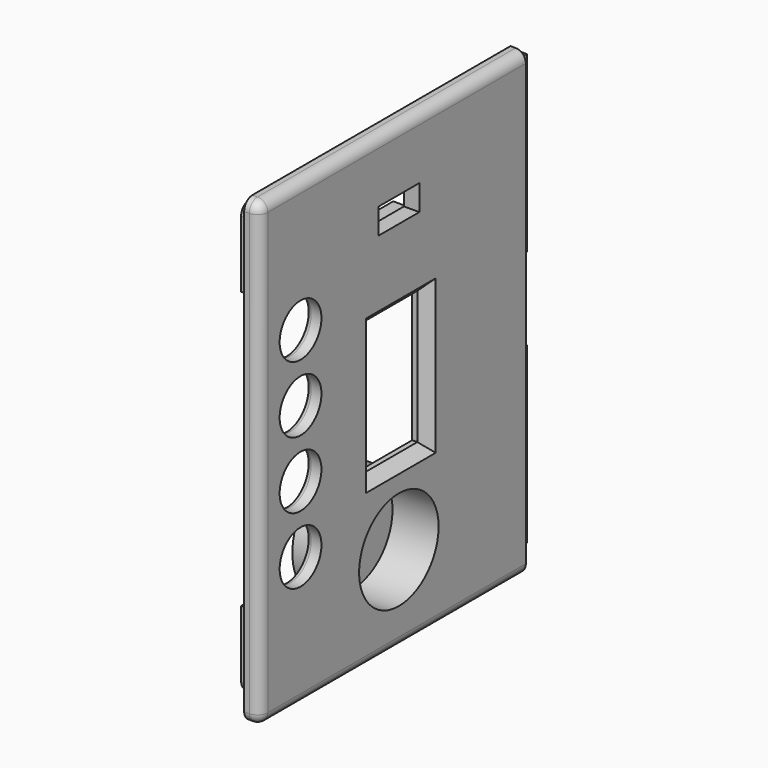
from build123d import *

# Parameters (mm, degrees)
SKETCH014_W     = 65
SKETCH014_H     = 90
SKETCH014_R     = 5.1
SKETCH014_W_2   = 13
SKETCH014_H_2   = 26
PAD010_DEPTH    = 3
SKETCH015_W     = 15
SKETCH015_H     = 13
POCKET004_DEPTH = 2
PAD011_DEPTH    = 3
FILLET009_R     = 2
FILLET010_R     = 2
FILLET011_R     = 2
CHAMFER008_SIZE = 2
CHAMFER009_SIZE = 2
CHAMFER010_SIZE = 2
CHAMFER011_SIZE = 2
FILLET012_R     = 1
FILLET013_R     = 1
FILLET014_R     = 1
FILLET015_R     = 1
FILLET016_R     = 2
FILLET017_R     = 2
SKETCH017_R     = 11
PAD012_DEPTH    = 9
SKETCH019_R     = 9.7
POCKET005_DEPTH = 9
SKETCH020_W     = 10
SKETCH020_H     = 5
POCKET006_DEPTH = 3
SKETCH021_R     = 0.5
PAD013_DEPTH    = 3
SKETCH022_W     = 3
SKETCH022_H     = 5
SKETCH022_W_2   = 16
SKETCH022_H_2   = 2
PAD014_DEPTH    = 5
CHAMFER012_SIZE = 1
CHAMFER013_SIZE = 0.5
CHAMFER014_SIZE = 0.5
CHAMFER015_SIZE = 1
SKETCH023_W     = 6
SKETCH023_H     = 34
PAD015_DEPTH    = 2


with BuildPart() as part:
    # Sketch014 → Pad010 (new body)
    with BuildSketch(Plane.YZ):
        with Locations((32.5, 0)):
            Rectangle(SKETCH014_W, SKETCH014_H)
        with Locations((10, 19.5)):
            Circle(SKETCH014_R, mode=Mode.SUBTRACT)
        with Locations((10, 6.5)):
            Circle(SKETCH014_R, mode=Mode.SUBTRACT)
        with Locations((10, -6.5)):
            Circle(SKETCH014_R, mode=Mode.SUBTRACT)
        with Locations((10, -19.5)):
            Circle(SKETCH014_R, mode=Mode.SUBTRACT)
        with Locations((34.5, 0)):
            Rectangle(SKETCH014_W_2, SKETCH014_H_2, mode=Mode.SUBTRACT)
    extrude(amount=PAD010_DEPTH)

    # Sketch015 (on Face13 of Pad010) → Pocket004 (cut)
    with BuildSketch(Plane(origin=(0, 0, 0), x_dir=(0, 1, 0), z_dir=(-1, 0, 0))):
        with Locations((57.5, 0)):
            Rectangle(SKETCH015_W, SKETCH015_H)
    extrude(amount=-POCKET004_DEPTH, mode=Mode.SUBTRACT)

    # Sketch016 (on Face4 of Pocket004) → Pad011 (join)
    with BuildSketch(Plane(origin=(0, 0, 0), x_dir=(0, 1, 0), z_dir=(-1, 0, 0))):
        Polygon((3, 27), (3, 42), (65, 42), (65, 40), (5, 40), (5, 27), align=None)
        Polygon((3, -27), (3, -42), (65, -42), (65, -40), (5, -40), (5, -27), align=None)
    extrude(amount=PAD011_DEPTH)

    # Fillet009
    fillet009_edges = [part.edges().sort_by_distance(p)[0] for p in [
        (3, 32.5, 45),
    ]]
    fillet(fillet009_edges, radius=FILLET009_R)

    # Fillet010
    fillet010_edges = [part.edges().sort_by_distance(p)[0] for p in [
        (3, 0, -1),
    ]]
    fillet(fillet010_edges, radius=FILLET010_R)

    # Fillet011
    fillet011_edges = [part.edges().sort_by_distance(p)[0] for p in [
        (3, 33.5, -45),
    ]]
    fillet(fillet011_edges, radius=FILLET011_R)

    # Chamfer008
    chamfer008_edges = [part.edges().sort_by_distance(p)[0] for p in [
        (3, 41, 0),
    ]]
    chamfer(chamfer008_edges, length=CHAMFER008_SIZE)

    # Chamfer009
    chamfer009_edges = [part.edges().sort_by_distance(p)[0] for p in [
        (3, 34.5, 13),
    ]]
    chamfer(chamfer009_edges, length=CHAMFER009_SIZE)

    # Chamfer010
    chamfer010_edges = [part.edges().sort_by_distance(p)[0] for p in [
        (3, 35.5, -13),
    ]]
    chamfer(chamfer010_edges, length=CHAMFER010_SIZE)

    # Chamfer011
    chamfer011_edges = [part.edges().sort_by_distance(p)[0] for p in [
        (3, 28, 1),
    ]]
    chamfer(chamfer011_edges, length=CHAMFER011_SIZE)

    # Fillet012
    fillet012_edges = [part.edges().sort_by_distance(p)[0] for p in [
        (0, 4.9, 19.5),
    ]]
    fillet(fillet012_edges, radius=FILLET012_R)

    # Fillet013
    fillet013_edges = [part.edges().sort_by_distance(p)[0] for p in [
        (0, 4.9, 6.5),
    ]]
    fillet(fillet013_edges, radius=FILLET013_R)

    # Fillet014
    fillet014_edges = [part.edges().sort_by_distance(p)[0] for p in [
        (0, 4.9, -6.5),
    ]]
    fillet(fillet014_edges, radius=FILLET014_R)

    # Fillet015
    fillet015_edges = [part.edges().sort_by_distance(p)[0] for p in [
        (0, 4.9, -19.5),
    ]]
    fillet(fillet015_edges, radius=FILLET015_R)

    # Fillet016
    fillet016_edges = [part.edges().sort_by_distance(p)[0] for p in [
        (-1.5, 3, 42),
    ]]
    fillet(fillet016_edges, radius=FILLET016_R)

    # Fillet017
    fillet017_edges = [part.edges().sort_by_distance(p)[0] for p in [
        (-1.5, 3, -42),
    ]]
    fillet(fillet017_edges, radius=FILLET017_R)

    # Sketch017 (on Face1 of Fillet017) → Pad012 (join)
    with BuildSketch(Plane(origin=(0, 0, 0), x_dir=(0, 1, 0), z_dir=(-1, 0, 0))):
        with Locations((34, 28)):
            Circle(SKETCH017_R)
    extrude(amount=PAD012_DEPTH)

    # Sketch019 (on Face33 of Pad012) → Pocket005 (cut)
    with BuildSketch(Plane.YZ.offset(3)):
        with Locations((34, -28)):
            Circle(SKETCH019_R)
    extrude(amount=-POCKET005_DEPTH, mode=Mode.SUBTRACT)

    # Sketch020 (on Face33 of Pocket005) → Pocket006 (cut)
    with BuildSketch(Plane.YZ.offset(3)):
        with Locations((34, 30.5)):
            Rectangle(SKETCH020_W, SKETCH020_H)
    extrude(amount=-POCKET006_DEPTH, mode=Mode.SUBTRACT)

    # Sketch021 (on Face1 of Pocket006) → Pad013 (join)
    with BuildSketch(Plane(origin=(0, 0, 0), x_dir=(0, 1, 0), z_dir=(-1, 0, 0))):
        with Locations((43.25, -30.5)):
            Circle(SKETCH021_R)
        with Locations((24.75, -30.5)):
            Circle(SKETCH021_R)
    extrude(amount=PAD013_DEPTH)

    # Sketch022 (on Face1 of Pad013) → Pad014 (join)
    with BuildSketch(Plane(origin=(0, 0, 0), x_dir=(0, 1, 0), z_dir=(-1, 0, 0))):
        with Locations((47.2, -30.5)):
            Rectangle(SKETCH022_W, SKETCH022_H)
        with Locations((20.8, -30.5)):
            Rectangle(SKETCH022_W, SKETCH022_H)
        with Locations((34, -25.2)):
            Rectangle(SKETCH022_W_2, SKETCH022_H_2)
        with Locations((34, -35.8)):
            Rectangle(SKETCH022_W_2, SKETCH022_H_2)
    extrude(amount=PAD014_DEPTH)

    # Chamfer012
    chamfer012_edges = [part.edges().sort_by_distance(p)[0] for p in [
        (-5, 45.7, 30.5),
    ]]
    chamfer(chamfer012_edges, length=CHAMFER012_SIZE)

    # Chamfer013
    chamfer013_edges = [part.edges().sort_by_distance(p)[0] for p in [
        (-5, 34, 26.2),
    ]]
    chamfer(chamfer013_edges, length=CHAMFER013_SIZE)

    # Chamfer014
    chamfer014_edges = [part.edges().sort_by_distance(p)[0] for p in [
        (-5, 34, 34.8),
    ]]
    chamfer(chamfer014_edges, length=CHAMFER014_SIZE)

    # Chamfer015
    chamfer015_edges = [part.edges().sort_by_distance(p)[0] for p in [
        (-5, 22.3, 30.5),
    ]]
    chamfer(chamfer015_edges, length=CHAMFER015_SIZE)

    # Sketch023 (on Face4 of Chamfer015) → Pad015 (join)
    with BuildSketch(Plane(origin=(0, 0, 0), x_dir=(0, 1, 0), z_dir=(-1, 0, 0))):
        with Locations((66, 25)):
            Rectangle(SKETCH023_W, SKETCH023_H)
        with Locations((66, -25)):
            Rectangle(SKETCH023_W, SKETCH023_H)
    extrude(amount=PAD015_DEPTH)


with BuildPart() as part_1:
    # Body002 placement: moved
    add(part.part.moved(Location((18, 0, 0))))


solid = part_1.part
